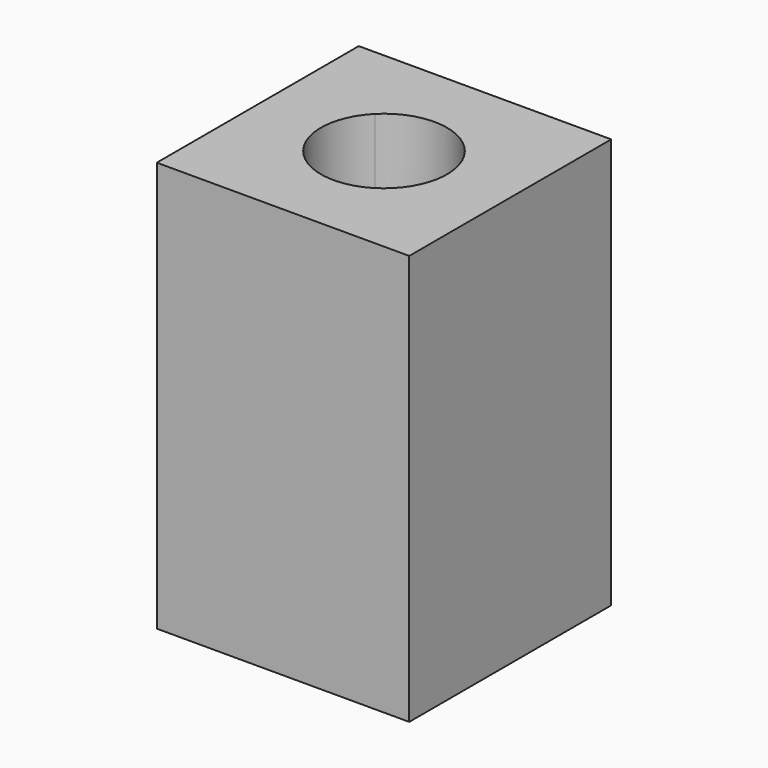
from build123d import *

# Parameters (mm, degrees)
F0_W     = 40
F0_H     = 40
F1_DEPTH = 65
F3_DEPTH = 25


with BuildPart() as f1:
    # F0 (on Top) → F1 (new body)
    with BuildSketch(Plane.XY):
        with Locations((-364.0511441231, 20)):
            Rectangle(F0_W, F0_H)
    extrude(amount=F1_DEPTH)

    # F2 (on face) → F3 (cut)
    with BuildSketch(Plane.XY.offset(65)):
        with BuildLine():
            Line((-371.1222119349, 27.0710678119), (-356.9800763112, 12.9289321881))
            ThreePointArc((-356.9800763112, 12.9289321881), (-354.812348798, 16.1731656763), (-354.0511441231, 20))
            ThreePointArc((-354.0511441231, 20), (-360.2243097994, 29.2387953251), (-371.1222119349, 27.0710678119))
        make_face()
        with BuildLine():
            ThreePointArc((-371.1222119349, 27.0710678119), (-371.1222119349, 12.9289321881), (-356.9800763112, 12.9289321881))
            Line((-356.9800763112, 12.9289321881), (-371.1222119349, 27.0710678119))
        make_face()
    extrude(amount=-F3_DEPTH, mode=Mode.SUBTRACT)


solid = f1.part
